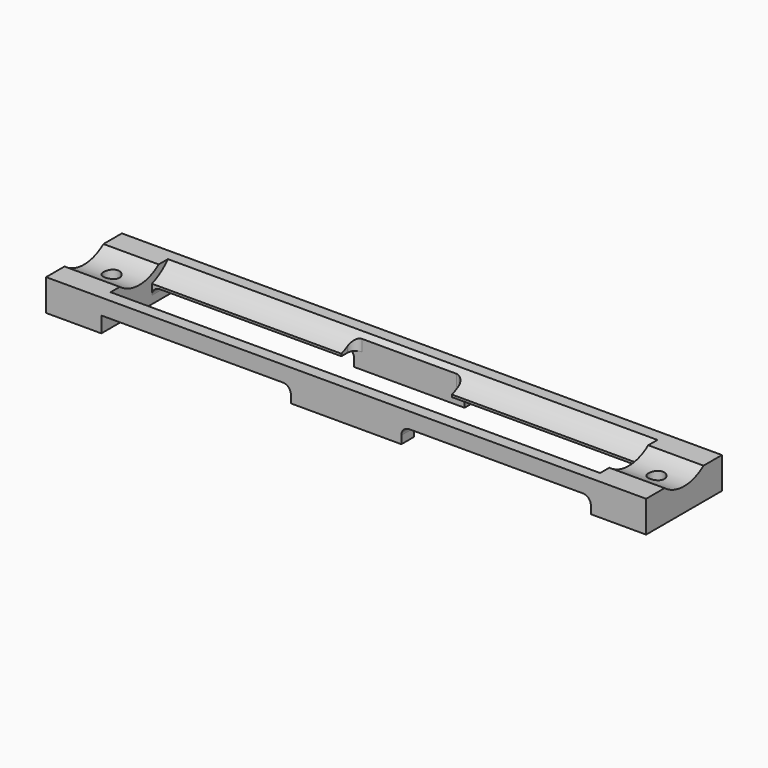
from build123d import *

# Parameters (mm, degrees)
SKETCH_W        = 12
SKETCH_H        = 4
PAD_DEPTH       = 76
POCKET_START    = -7
SKETCH001_R     = 6.05
POCKET_DEPTH    = 62
SKETCH002_R     = 5.05
POCKET001_DEPTH = 76.001
SKETCH003_W     = 12
SKETCH003_H     = 62
POCKET002_DEPTH = 2
SKETCH004_W     = 4
SKETCH004_H     = 62
POCKET003_DEPTH = 2.001
SKETCH005_W     = 12
SKETCH005_H     = 14
PAD001_DEPTH    = 2
SKETCH006_W     = 8
SKETCH006_H     = 14
POCKET004_DEPTH = 5
SKETCH007_R     = 1
POCKET005_DEPTH = 4.001
FILLET_R        = 1
FILLET001_R     = 1
FILLET002_R     = 1
FILLET003_R     = 1
FILLET004_R     = 1
FILLET005_R     = 1
FILLET006_R     = 1
FILLET007_R     = 1
FILLET008_R     = 1
FILLET009_R     = 1
FILLET010_R     = 1


with BuildPart() as part:
    # Sketch → Pad (new body)
    with BuildSketch(Plane.YZ):
        with Locations((6, 2)):
            Rectangle(SKETCH_W, SKETCH_H)
    extrude(amount=PAD_DEPTH)

    # Sketch001 (on Face6 of Pad) → Pocket (cut)
    with BuildSketch(Plane.YZ.offset(76).offset(POCKET_START)):
        with Locations((6, 8)):
            Circle(SKETCH001_R)
    extrude(amount=-POCKET_DEPTH, mode=Mode.SUBTRACT)

    # Sketch002 (on Face5 of Pocket) → Pocket001 (cut, through all)
    with BuildSketch(Plane.YZ.offset(76)):
        with Locations((6, 8)):
            Circle(SKETCH002_R)
    extrude(amount=-POCKET001_DEPTH, mode=Mode.SUBTRACT)

    # Sketch003 (on Face1 of Pocket001) → Pocket002 (cut)
    with BuildSketch(Plane.YX):
        with Locations((6, 38)):
            Rectangle(SKETCH003_W, SKETCH003_H)
    extrude(amount=-POCKET002_DEPTH, mode=Mode.SUBTRACT)

    # Sketch004 (on Face12 of Pocket002) → Pocket003 (cut, through all)
    with BuildSketch(Plane.YX.offset(-2)):
        with Locations((6, 38)):
            Rectangle(SKETCH004_W, SKETCH004_H)
    extrude(amount=-POCKET003_DEPTH, mode=Mode.SUBTRACT)

    # Sketch005 (on Face12 of Pocket003) → Pad001 (join)
    with BuildSketch(Plane.YX.offset(-2)):
        with Locations((6, 38)):
            Rectangle(SKETCH005_W, SKETCH005_H)
    extrude(amount=PAD001_DEPTH)

    # Sketch006 (on Face35 of Pad001) → Pocket004 (cut)
    with BuildSketch(Plane.YX):
        with Locations((6, 38)):
            Rectangle(SKETCH006_W, SKETCH006_H)
    extrude(amount=-POCKET004_DEPTH, mode=Mode.SUBTRACT)

    # Sketch007 (on Face10 of Pocket004) → Pocket005 (cut, through all)
    with BuildSketch(Plane.YX):
        with Locations((6, 3.5)):
            Circle(SKETCH007_R)
        with Locations((6, 72.5)):
            Circle(SKETCH007_R)
    extrude(amount=-POCKET005_DEPTH, mode=Mode.SUBTRACT)

    # Fillet
    fillet_edges = [part.edges().sort_by_distance(p)[0] for p in [
        (45, 11, 2),
    ]]
    fillet(fillet_edges, radius=FILLET_R)

    # Fillet001
    fillet001_edges = [part.edges().sort_by_distance(p)[0] for p in [
        (31, 11, 2),
    ]]
    fillet(fillet001_edges, radius=FILLET001_R)

    # Fillet002
    fillet002_edges = [part.edges().sort_by_distance(p)[0] for p in [
        (31, 1, 2),
    ]]
    fillet(fillet002_edges, radius=FILLET002_R)

    # Fillet003
    fillet003_edges = [part.edges().sort_by_distance(p)[0] for p in [
        (45, 1, 2),
    ]]
    fillet(fillet003_edges, radius=FILLET003_R)

    # Fillet004
    fillet004_edges = [part.edges().sort_by_distance(p)[0] for p in [
        (69, 10, 2),
    ]]
    fillet(fillet004_edges, radius=FILLET004_R)

    # Fillet005
    fillet005_edges = [part.edges().sort_by_distance(p)[0] for p in [
        (69, 2, 2),
    ]]
    fillet(fillet005_edges, radius=FILLET005_R)

    # Fillet006
    fillet006_edges = [part.edges().sort_by_distance(p)[0] for p in [
        (7, 10, 2),
    ]]
    fillet(fillet006_edges, radius=FILLET006_R)

    # Fillet007
    fillet007_edges = [part.edges().sort_by_distance(p)[0] for p in [
        (31, 10, 2.730501),
    ]]
    fillet(fillet007_edges, radius=FILLET007_R)

    # Fillet008
    fillet008_edges = [part.edges().sort_by_distance(p)[0] for p in [
        (45, 10, 2.730501),
    ]]
    fillet(fillet008_edges, radius=FILLET008_R)

    # Fillet009
    fillet009_edges = [part.edges().sort_by_distance(p)[0] for p in [
        (31, 2, 2.730501),
    ]]
    fillet(fillet009_edges, radius=FILLET009_R)

    # Fillet010
    fillet010_edges = [part.edges().sort_by_distance(p)[0] for p in [
        (45, 2, 2.730501),
    ]]
    fillet(fillet010_edges, radius=FILLET010_R)


solid = part.part
